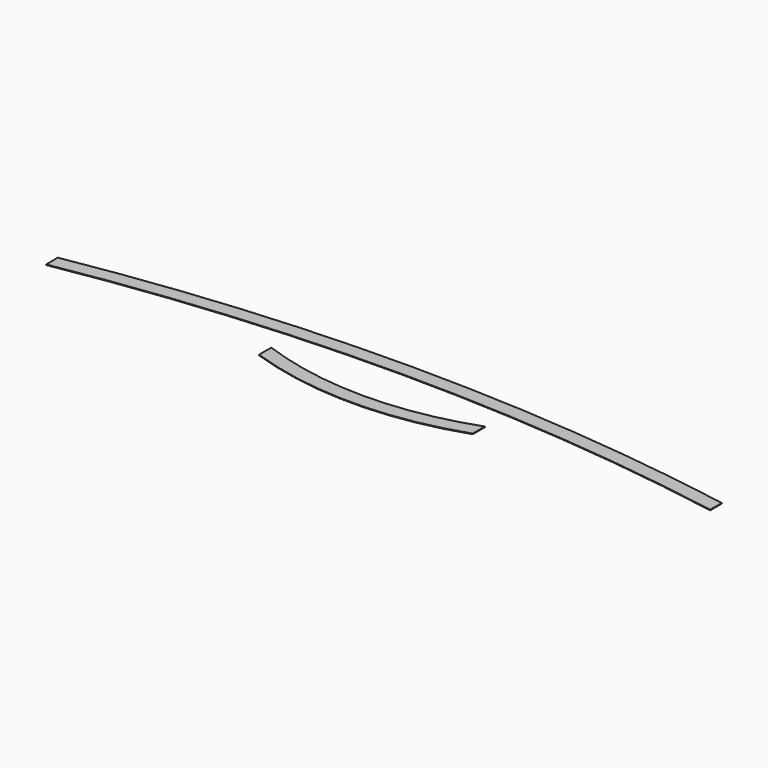
from build123d import *

# Parameters (mm, degrees)
F1_DEPTH = 0.2
F3_DEPTH = 0.2


with BuildPart() as f1:
    # F0 (on Top) → F1 (new body)
    with BuildSketch(Plane.XY):
        with BuildLine():
            ThreePointArc((-115, 0), (0, 10), (115, 0))
            Line((115, 0), (115, 5.07561))
            ThreePointArc((115, 5.07561), (0, 15), (-115, 5.07561))
            Line((-115, 5.07561), (-115, 0))
        make_face()
    extrude(amount=F1_DEPTH)


with BuildPart() as f3:
    # F2 (on Top) → F3 (new body)
    with BuildSketch(Plane.XY):
        with BuildLine():
            ThreePointArc((37, 0), (0, -6.5), (-37, 0))
            Line((-37, 0), (-37, -5.303145))
            ThreePointArc((-37, -5.303145), (0, -11.5), (37, -5.303145))
            Line((37, -5.303145), (37, 0))
        make_face()
    extrude(amount=F3_DEPTH)


solid = Compound([f1.part, f3.part])
